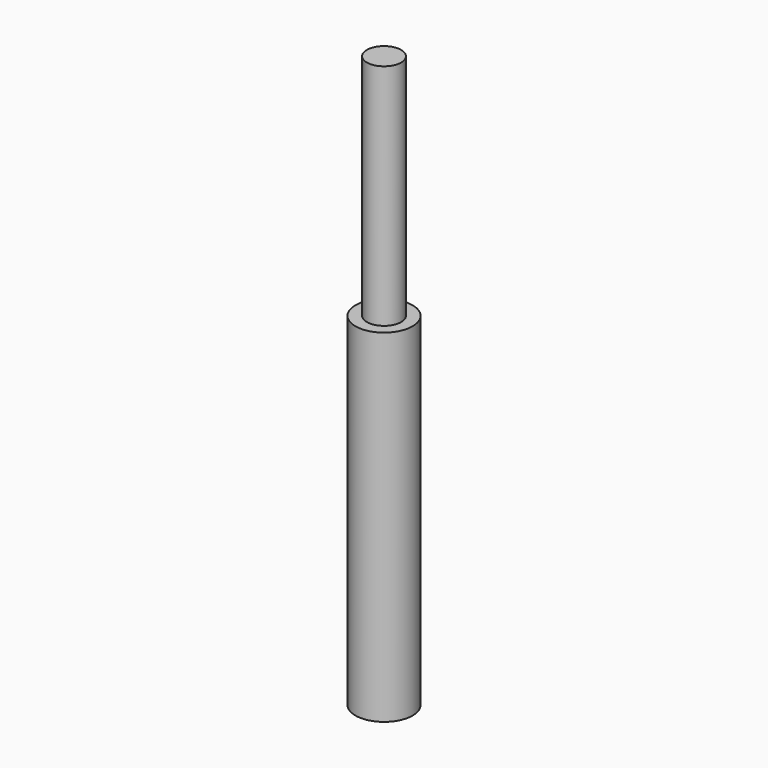
from build123d import *


with BuildPart() as part:
    # Sketch → Revolution (revolve)
    with BuildSketch(Plane.XZ):
        Polygon((0, 50), (0, 0), (2.5, 0), (2.5, 30), (1.5, 30), (1.5, 50), align=None)
    revolve(axis=Axis((0, 0, 0), (0, 0, 1)))


solid = part.part
